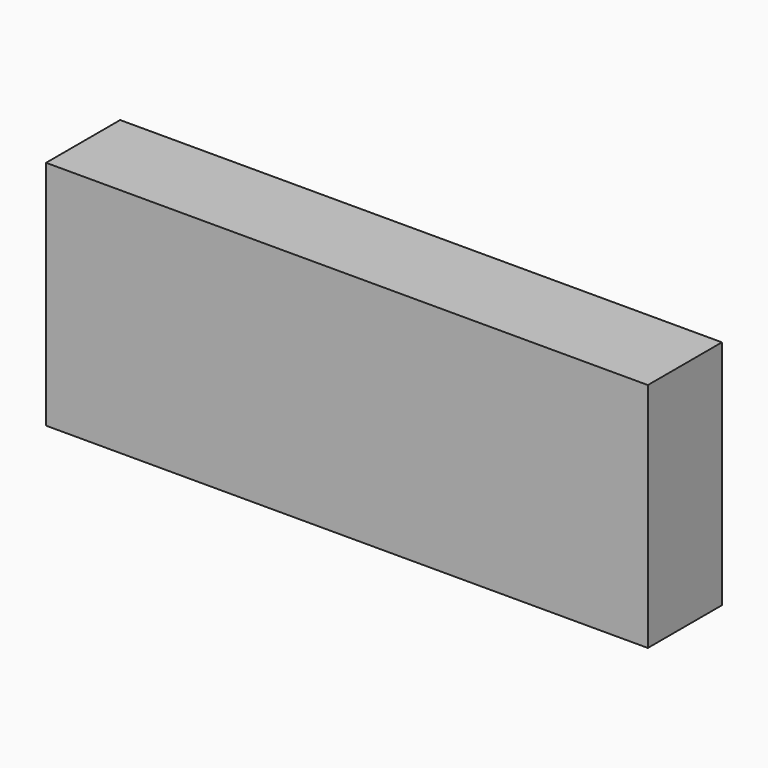
from build123d import *

# Parameters (mm, degrees)
SKETCH_W      = 130
SKETCH_H      = 20
EXTRUDE_DEPTH = 50


with BuildPart() as part:
    # Sketch → Extrude (new body)
    with BuildSketch(Plane.XY):
        Rectangle(SKETCH_W, SKETCH_H)
    extrude(amount=EXTRUDE_DEPTH)


solid = part.part
